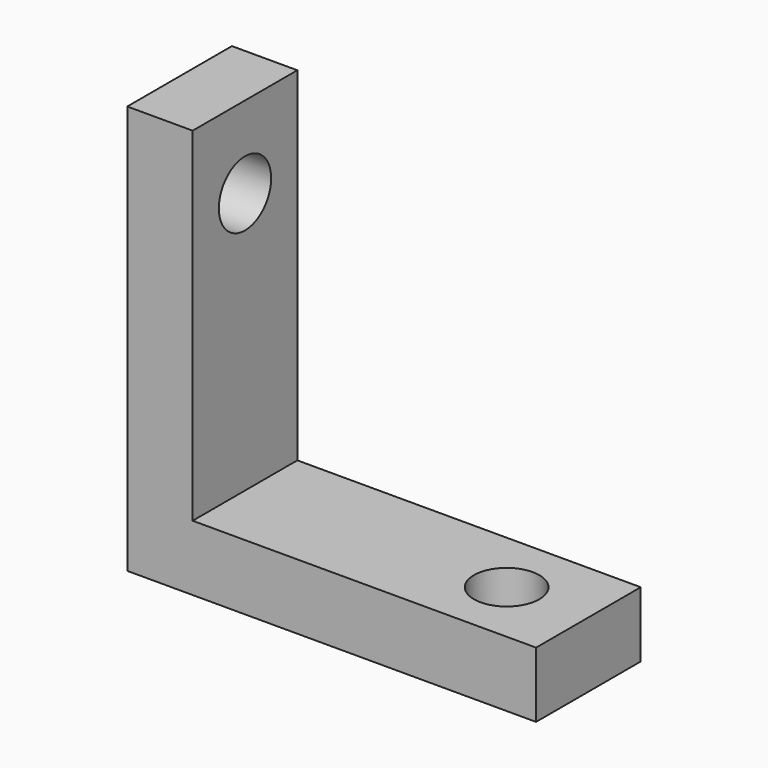
from build123d import *

# Parameters (mm, degrees)
PAD_DEPTH       = 8
SKETCH001_R     = 2
POCKET_DEPTH    = 5
SKETCH002_R     = 2
POCKET001_DEPTH = 5


with BuildPart() as part:
    # Sketch → Pad (new body)
    with BuildSketch(Plane.XZ):
        Polygon((4, 4), (4, 25), (0, 25), (0, 0), (25, 0), (25, 4), align=None)
    extrude(amount=PAD_DEPTH)

    # Sketch001 (on Face6 of Pad) → Pocket (cut)
    with BuildSketch(Plane(origin=(0, 0, 4), x_dir=(-1, 0, 0), z_dir=(0, 0, 1))):
        with Locations((-20, 4)):
            Circle(SKETCH001_R)
    extrude(amount=-POCKET_DEPTH, mode=Mode.SUBTRACT)

    # Sketch002 (on Face1 of Pocket) → Pocket001 (cut)
    with BuildSketch(Plane(origin=(4, 0, 0), x_dir=(0, 0, 1), z_dir=(1, 0, 0))):
        with Locations((20, 4)):
            Circle(SKETCH002_R)
    extrude(amount=-POCKET001_DEPTH, mode=Mode.SUBTRACT)


solid = part.part
